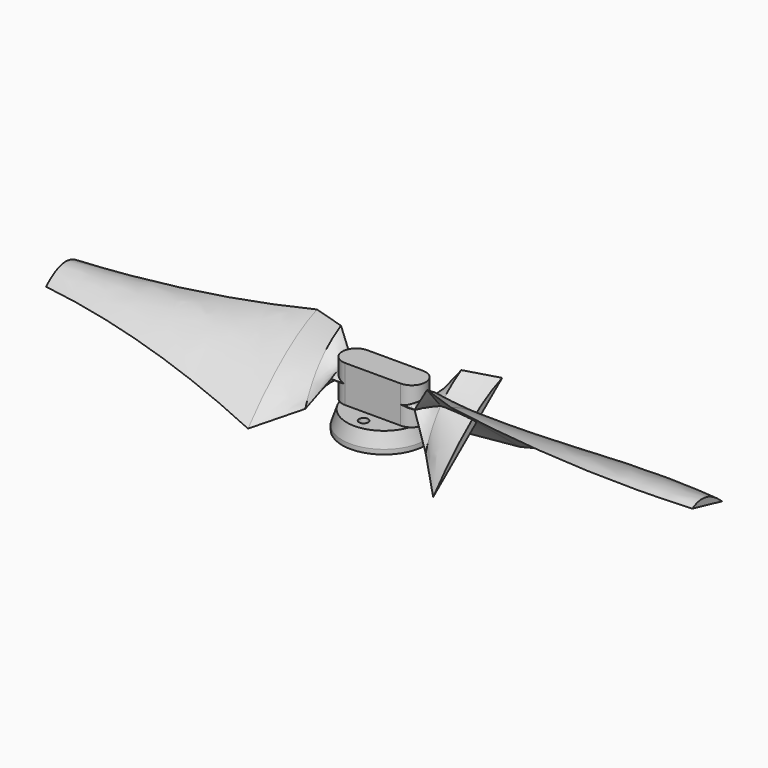
from build123d import *

# Parameters (mm, degrees)
CLONE_PLACEMENT_ANGLE = 180
PAD_DEPTH             = 4
SKETCH008_R           = 8
SKETCH009_R           = 9
SKETCH010_R           = 1
POCKET_DEPTH          = 5.485014
SKETCH011_R           = 9
SKETCH011_R_2         = 8.2
PAD001_DEPTH          = 1


with BuildPart() as loft001:
    # Sketch005 → Loft001 section 0
    with BuildSketch(Plane.YZ.offset(9)):
        with BuildLine():
            add(Edge.make_bspline(
                [(3, 0), (0, 2), (-3, 0)],
                knots=[0, 0, 0, 1, 1, 1], degree=2))
            ThreePointArc((-3, 0), (0, -1), (3, 0))
        make_face()
    # Sketch006 → Loft001 section 1
    with BuildSketch(Plane.YZ.offset(13)):
        with BuildLine():
            Line((-4.998783, -6.181802), (4.634092, 5.730802))
            add(Edge.make_bspline(
                [(4.634092, 5.730802), (-2.332755, 1.886333), (-4.998783, -6.181802)],
                knots=[0, 0, 0, 1, 1, 1], degree=2))
        make_face()
    # Sketch001 → Loft001 section 2
    with BuildSketch(Plane.YZ.offset(20)):
        with BuildLine():
            Line((-11.724329, -9.484014), (6.919531, 5.597329))
            add(Edge.make_bspline(
                [(-11.724329, -9.484014), (-1.88674, 2.332426), (6.919531, 5.597329)],
                knots=[0, 0, 0, 1, 1, 1], degree=2))
        make_face()
    loft(ruled=True)


with BuildPart() as loft_body:
    # Sketch004 → Loft section 0
    with BuildSketch(Plane.YZ):
        with BuildLine():
            ThreePointArc((-1, 2), (-3, 0), (-1, -2))
            Line((-1, -2), (1, -2))
            ThreePointArc((1, -2), (3, 0), (1, 2))
            Line((1, 2), (-1, 2))
        make_face()
    # Sketch005 → Loft section 1
    with BuildSketch(Plane.YZ.offset(9)):
        with BuildLine():
            add(Edge.make_bspline(
                [(3, 0), (0, 2), (-3, 0)],
                knots=[0, 0, 0, 1, 1, 1], degree=2))
            ThreePointArc((-3, 0), (0, -1), (3, 0))
        make_face()
    loft()


with BuildPart() as fusion001:
    # Fusion001 base: copy of Loft body
    add(loft_body.part)

    # Fusion001: union Loft001
    add(loft001.part)


with BuildPart() as loft002:
    # Sketch001 → Loft002 section 0
    with BuildSketch(Plane.YZ.offset(20)):
        with BuildLine():
            Line((-11.724329, -9.484014), (6.919531, 5.597329))
            add(Edge.make_bspline(
                [(-11.724329, -9.484014), (-1.88674, 2.332426), (6.919531, 5.597329)],
                knots=[0, 0, 0, 1, 1, 1], degree=2))
        make_face()
    # Sketch002 → Loft002 section 1
    with BuildSketch(Plane.YZ.offset(50)):
        with BuildLine():
            Line((-7.601952, -2.45976), (4.519308, 1.46231))
            add(Edge.make_bspline(
                [(4.519308, 1.46231), (-0.923564, 2.8543), (-7.601952, -2.45976)],
                knots=[0, 0, 0, 1, 1, 1], degree=2))
        make_face()
    # Sketch003 → Loft002 section 2
    with BuildSketch(Plane.YZ.offset(69)):
        with BuildLine():
            Line((-4.994664, -1.170568), (2.998746, 0.702797))
            add(Edge.make_bspline(
                [(2.998746, 0.702797), (-0.684543, 2.920856), (-4.994664, -1.170568)],
                knots=[0, 0, 0, 1, 1, 1], degree=2))
        make_face()
    loft()


with BuildPart() as fusion002:
    # Fusion base: copy of Loft body
    add(loft_body.part)

    # Fusion: union Loft001
    add(loft001.part)

    # Fusion002: union Loft002
    add(loft002.part)


with BuildPart() as fusion003:
    # Clone base: copy of Fusion002
    add(fusion002.part)


with BuildPart() as fusion003_1:
    # Clone placement: moved
    add(fusion003.part.rotate(Axis((0, 0, 0), (0, 0, 1)), CLONE_PLACEMENT_ANGLE))


with BuildPart() as body:
    # Fusion003 base: copy of Fusion002
    add(fusion002.part)

    # Fusion003: union Fusion003
    add(fusion003_1.part)

    # Sketch007 → Pad (new body, symmetric)
    with BuildSketch(Plane.XY):
        with BuildLine():
            ThreePointArc((-6, 3), (-9, 0), (-6, -3))
            Line((-6, -3), (6, -3))
            ThreePointArc((6, -3), (9, 0), (6, 3))
            Line((6, 3), (-6, 3))
        make_face()
    extrude(amount=PAD_DEPTH, both=True)

    # Sketch008 (on Face3 of Pad) → AdditiveLoft section 0
    with BuildSketch(Plane(origin=(0, 0, -4), x_dir=(1, 0, 0), z_dir=(0, 0, -1))):
        Circle(SKETCH008_R)
    # Sketch009 (on DatumPlane) → AdditiveLoft section 1
    with BuildSketch(Plane.XY.offset(-7)):
        Circle(SKETCH009_R)
    loft()

    # Sketch010 (on Face5 of AdditiveLoft) → Pocket (cut, through all)
    with BuildSketch(Plane.XY.offset(-4)):
        with Locations((0, 5.5)):
            Circle(SKETCH010_R)
        with Locations((0, -5.5)):
            Circle(SKETCH010_R)
    extrude(amount=-POCKET_DEPTH, mode=Mode.SUBTRACT)

    # Sketch011 (on Face31 of Pocket) → Pad001 (join)
    with BuildSketch(Plane(origin=(0, 0, -7), x_dir=(1, 0, 0), z_dir=(0, 0, -1))):
        Circle(SKETCH011_R)
        Circle(SKETCH011_R_2, mode=Mode.SUBTRACT)
    extrude(amount=PAD001_DEPTH)


with BuildPart() as body001:
    # mirror: instance of Body
    add(body.part.mirror(Plane(origin=(0, 0, 0), x_dir=(0, -1, 0), z_dir=(1, 0, 0))))


solid = Compound([fusion001.part, body001.part])
